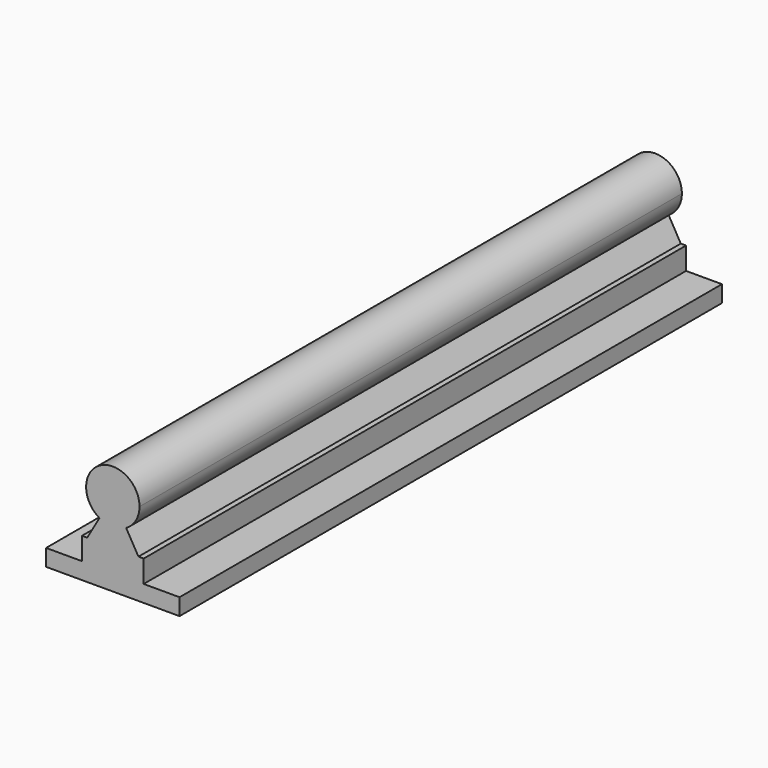
from build123d import *

# Parameters (mm, degrees)
F1_DEPTH = 203.2


with BuildPart() as f1:
    # F0 (on Front) → F1 (new body)
    with BuildSketch(Plane.XZ):
        with BuildLine():
            ThreePointArc((4, -6.928203), (6.928203, -4), (8, 0))
            ThreePointArc((8, 0), (-4, 6.928203), (-4, -6.928203))
            ThreePointArc((-4, -6.928203), (0, -8), (4, -6.928203))
        make_face()
        with BuildLine():
            ThreePointArc((4, -6.928203), (0, -8), (-4, -6.928203))
            Line((-4, -6.928203), (-7.678759, -13.3))
            Line((-7.678759, -13.3), (-9.25, -13.3))
            Line((-9.25, -13.3), (-9.25, -20))
            Line((-9.25, -20), (-20, -20))
            Line((-20, -20), (-20, -25))
            Line((-20, -25), (0, -25))
            Line((0, -25), (20, -25))
            Line((20, -25), (20, -20))
            Line((20, -20), (9.25, -20))
            Line((9.25, -20), (9.25, -13.3))
            Line((9.25, -13.3), (7.678759, -13.3))
            Line((7.678759, -13.3), (4, -6.928203))
        make_face()
    extrude(amount=F1_DEPTH)


solid = f1.part
